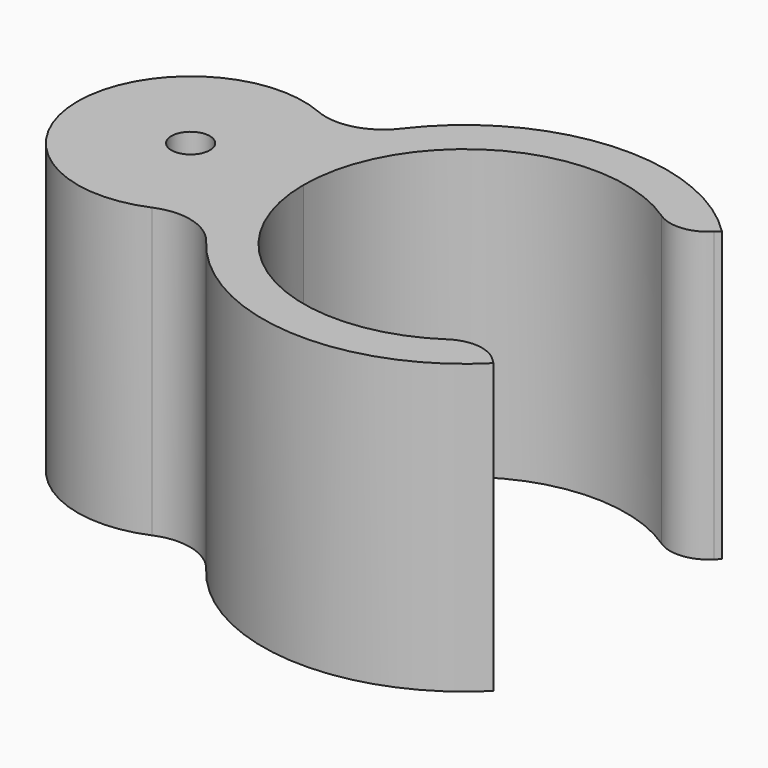
from build123d import *

# Parameters (mm, degrees)
F1_DEPTH = 15
F2_R     = 2
F3_R     = 5.875
F4_DEPTH = 2.5
F5_R     = 3
F7_D     = 2


with BuildPart() as f1:
    # F0 (on Top) → F1 (new body)
    with BuildSketch(Plane.XY):
        with BuildLine():
            ThreePointArc((-10.3596491228, 1.7110435565), (-10.0908840346, 0.8742164411), (-10, 0))
            ThreePointArc((-10, 0), (-10.0908840346, -0.8742164411), (-10.3596491228, -1.7110435565))
            ThreePointArc((-10.3596491228, -1.7110435565), (-10.1258015969, -2.778154427), (-9.7823464912, -3.8151929343))
            ThreePointArc((-9.7823464912, -3.8151929343), (-8.7380543651, -2.0332437921), (-8.375, 0))
            ThreePointArc((-8.375, 0), (-8.7380543651, 2.0332437921), (-9.7823464912, 3.8151929343))
            ThreePointArc((-9.7823464912, 3.8151929343), (-10.1258015969, 2.778154427), (-10.3596491228, 1.7110435565))
        make_face()
        with BuildLine():
            ThreePointArc((-10.3596491228, -1.7110435565), (-18.5, 0), (-10.3596491228, 1.7110435565))
            ThreePointArc((-10.3596491228, 1.7110435565), (-10.1258015969, 2.778154427), (-9.7823464912, 3.8151929343))
            ThreePointArc((-9.7823464912, 3.8151929343), (-20.125, 0), (-9.7823464912, -3.8151929343))
            ThreePointArc((-9.7823464912, -3.8151929343), (-10.1258015969, -2.778154427), (-10.3596491228, -1.7110435565))
        make_face()
        with BuildLine():
            ThreePointArc((7.4246212025, 7.4246212025), (-2.1556229355, 10.2763461288), (-9.7823464912, 3.8151929343))
            ThreePointArc((-9.7823464912, 3.8151929343), (-8.7380543651, 2.0332437921), (-8.375, 0))
            ThreePointArc((-8.375, 0), (-3.2049737461, 7.7374910848), (5.9220192924, 5.9220192924))
            Line((5.9220192924, 5.9220192924), (7.4246212025, 7.4246212025))
        make_face()
        with BuildLine():
            ThreePointArc((-8.375, 0), (-8.7380543651, -2.0332437921), (-9.7823464912, -3.8151929343))
            ThreePointArc((-9.7823464912, -3.8151929343), (-2.1556229355, -10.2763461288), (7.4246212025, -7.4246212025))
            Line((7.4246212025, -7.4246212025), (5.9220192924, -5.9220192924))
            ThreePointArc((5.9220192924, -5.9220192924), (-3.2049737461, -7.7374910848), (-8.375, 0))
        make_face()
    extrude(amount=F1_DEPTH)

    # F2
    f2_edges = [f1.edges().sort_by_distance(p)[0] for p in [
        (5.922019, 5.922019, 7.5),
        (5.922019, -5.922019, 7.5),
    ]]
    fillet(f2_edges, radius=F2_R)

    # F3 (on face) → F4 (join)
    with BuildSketch(Plane.XY.offset(15)):
        with Locations((-14.25, 0)):
            Circle(F3_R)
    extrude(amount=-F4_DEPTH)

    # F5
    f5_edges = [f1.edges().sort_by_distance(p)[0] for p in [
        (-9.782346, 3.815193, 7.5),
        (-9.782346, -3.815193, 7.5),
    ]]
    fillet(f5_edges, radius=F5_R)

    # F7 (through all)
    with Locations(Plane.XY.offset(15)):
        with Locations((-14.25, 0)):
            Hole(F7_D / 2)


solid = f1.part
